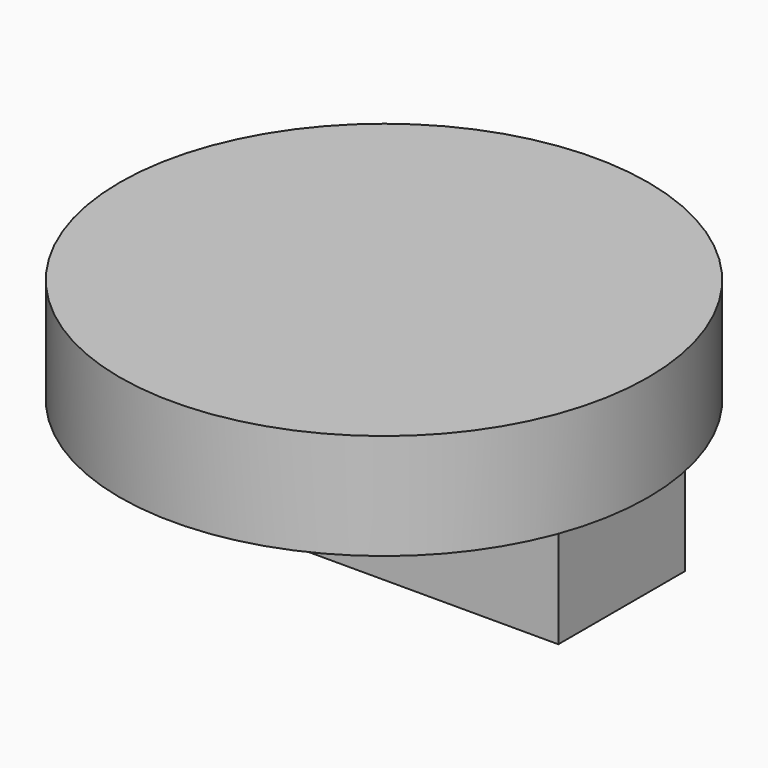
from build123d import *

# Parameters (mm, degrees)
F0_R     = 31.75
F1_DEPTH = 12.7
F2_W     = 57.15
F2_H     = 19.05
F3_DEPTH = 12.7
F4_T     = -5.715
F5_R     = 3.81
F6_DEPTH = 41.276


with BuildPart() as f1:
    # F0 (on Top) → F1 (new body)
    with BuildSketch(Plane.XY):
        Circle(F0_R)
    extrude(amount=F1_DEPTH)

    # F2 (on Top) → F3 (join)
    with BuildSketch(Plane.XY):
        Rectangle(F2_W, F2_H)
    extrude(amount=-F3_DEPTH)

    # F4
    f4_openings = [f1.faces().sort_by_distance(p)[0] for p in [
        (0, 0, -12.7),
    ]]
    offset(amount=F4_T, openings=f4_openings, kind=Kind.INTERSECTION)

    # F5 (on face) → F6 (cut, through all)
    with BuildSketch(Plane.XZ.offset(9.525)):
        with Locations((0, -6.35)):
            Circle(F5_R)
    extrude(amount=-F6_DEPTH, mode=Mode.SUBTRACT)


solid = f1.part
